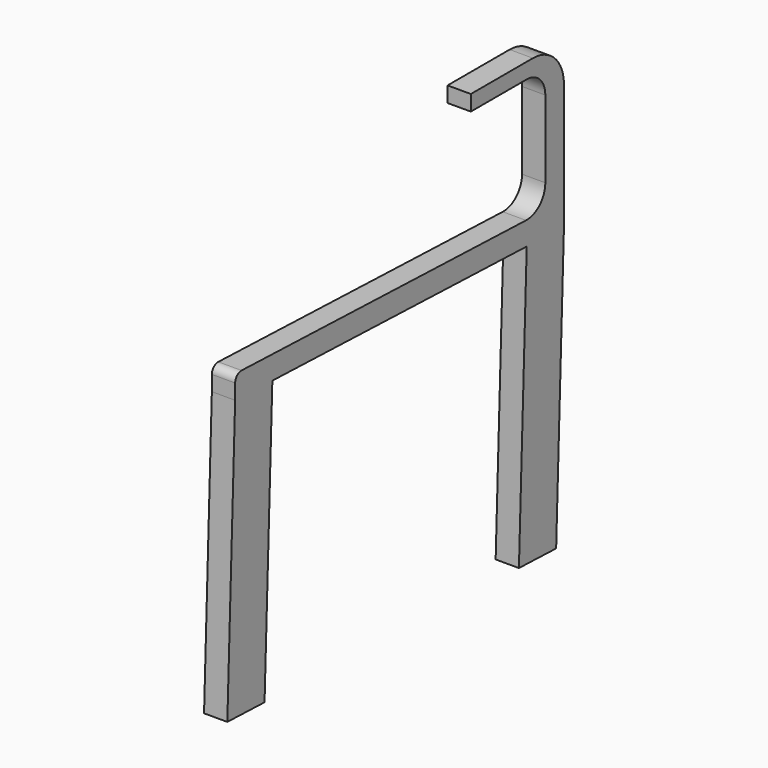
from build123d import *

# Parameters (mm, degrees)
F1_DEPTH = 1.5
F2_R     = 3
F3_R     = 1
F4_R     = 5


with BuildPart() as f1:
    # F0 (on Right) → F1 (new body, symmetric)
    with BuildSketch(Plane.YZ):
        Polygon((-15, 19.164762), (-3, 19.164762), (-3, 3.104762), (-52.969541, 4.849737), (-52.969541, 1.849737), (-46.973196, 1.64034), (-5.996345, 0.209397), (0, 0), (0, 21.164762), (-15, 21.164762), align=None)
        Polygon((-1.256382, -35.97807), (0, 0), (-5.996345, 0.209397), (-7.252727, -35.768673), align=None)
        Polygon((-46.973196, 1.64034), (-52.969541, 1.849737), (-54.225923, -34.128333), (-48.229578, -34.33773), align=None)
    extrude(amount=F1_DEPTH, both=True)

    # F2
    f2_edges = [f1.edges().sort_by_distance(p)[0] for p in [
        (0, -3, 19.164762),
        (0, -3, 3.104762),
    ]]
    fillet(f2_edges, radius=F2_R)

    # F3
    f3_edges = [f1.edges().sort_by_distance(p)[0] for p in [
        (0, -52.969541, 4.849737),
    ]]
    fillet(f3_edges, radius=F3_R)

    # F4
    f4_edges = [f1.edges().sort_by_distance(p)[0] for p in [
        (0, 0, 21.164762),
    ]]
    fillet(f4_edges, radius=F4_R)


solid = f1.part
